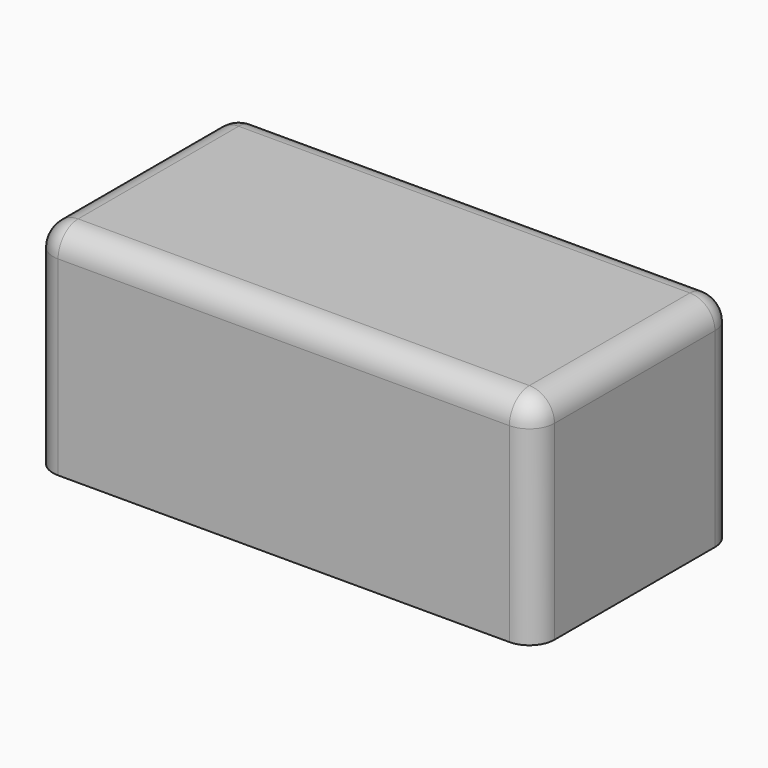
from build123d import *

# Parameters (mm, degrees)
F0_W     = 127
F0_H     = 54.61
F1_DEPTH = 63.5
F2_R     = 6.35
F3_R     = 6.35


with BuildPart() as f1:
    # F0 (on Front) → F1 (new body)
    with BuildSketch(Plane.XZ):
        with Locations((63.5, 27.305)):
            Rectangle(F0_W, F0_H)
    extrude(amount=F1_DEPTH)

    # F2
    f2_edges = [f1.edges().sort_by_distance(p)[0] for p in [
        (127, -63.5, 27.305),
        (127, 0, 27.305),
        (0, -63.5, 27.305),
        (0, 0, 27.305),
    ]]
    fillet(f2_edges, radius=F2_R)

    # F3
    f3_edges = [f1.edges().sort_by_distance(p)[0] for p in [
        (0, -31.75, 54.61),
    ]]
    fillet(f3_edges, radius=F3_R)


solid = f1.part
